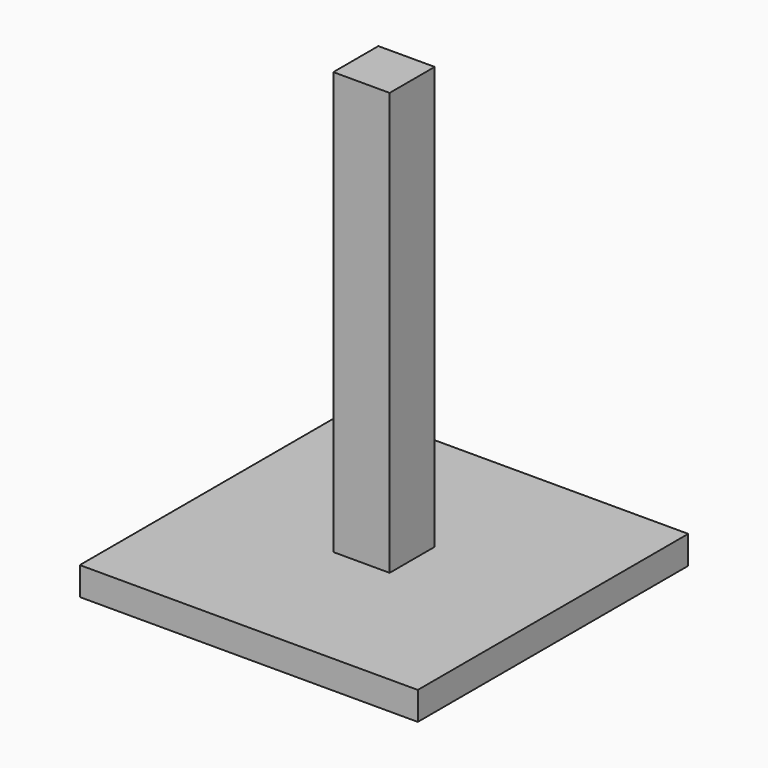
from build123d import *

# Parameters (mm, degrees)
F0_W     = 300
F0_H     = 300
F0_W_2   = 50
F0_H_2   = 50
F1_DEPTH = 25
F2_W     = 50
F2_H     = 50
F3_DEPTH = 400


with BuildPart() as f1:
    # F0 (on Top) → F1 (new body)
    with BuildSketch(Plane.XY):
        with Locations((150, 150)):
            Rectangle(F0_W, F0_H)
        with Locations((150, 150)):
            Rectangle(F0_W_2, F0_H_2, mode=Mode.SUBTRACT)
    extrude(amount=-F1_DEPTH)


with BuildPart() as f3:
    # F2 (on face) → F3 (new body)
    with BuildSketch(Plane(origin=(0, 0, -25), x_dir=(1, 0, 0), z_dir=(0, 0, -1))):
        with Locations((150, -150)):
            Rectangle(F2_W, F2_H)
    extrude(amount=-F3_DEPTH)


solid = Compound([f1.part, f3.part])
